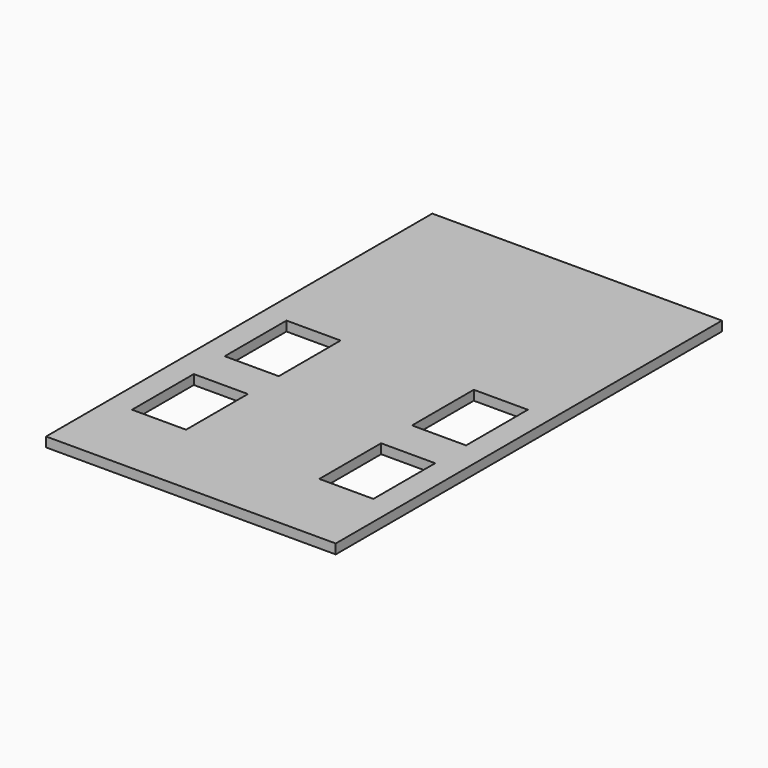
from build123d import *

# Parameters (mm, degrees)
F0_W     = 28
F0_H     = 40
F1_DEPTH = 5


with BuildPart() as f1:
    # F0 (on Top) → F1 (new body)
    with BuildSketch(Plane.XY):
        Polygon((49.471636, 59.030185), (-100.528364, 59.030185), (-100.528364, -150.969815), (-100.528364, -190.969815), (49.471636, -190.969815), align=None)
        with Locations((-74.028364, -130.969815)):
            Rectangle(F0_W, F0_H, mode=Mode.SUBTRACT)
        with Locations((-74.028364, -70.969815)):
            Rectangle(F0_W, F0_H, mode=Mode.SUBTRACT)
        with Locations((22.971636, -130.969815)):
            Rectangle(F0_W, F0_H, mode=Mode.SUBTRACT)
        with Locations((22.971636, -70.969815)):
            Rectangle(F0_W, F0_H, mode=Mode.SUBTRACT)
    extrude(amount=F1_DEPTH)


solid = f1.part
